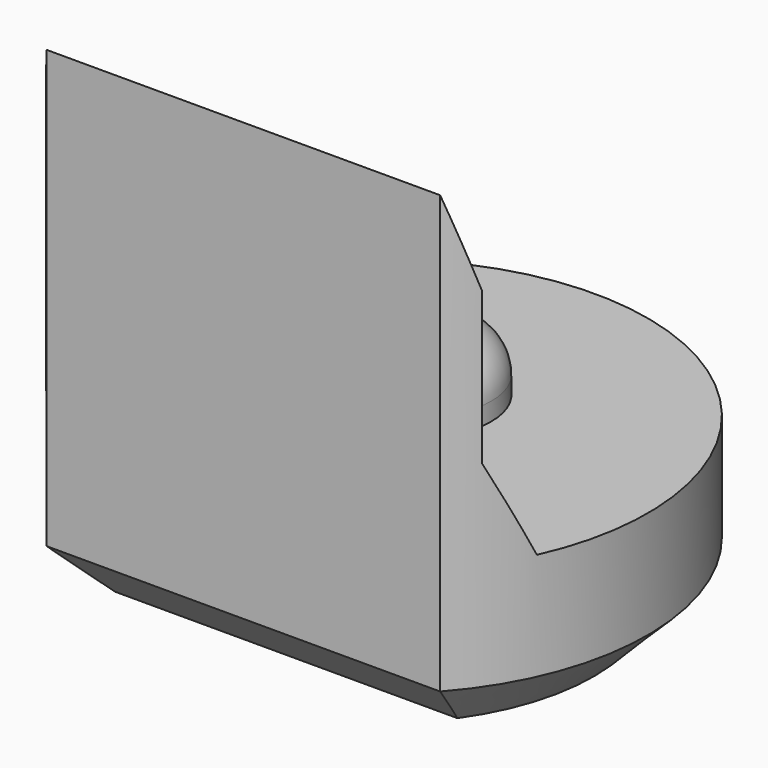
from build123d import *

# Parameters (mm, degrees)
PAD003_DEPTH         = 5.5
POCKET004_DEPTH      = 2.951
POCKET004_DEPTH_BACK = 2.951
SKETCH013_R          = 0.8
PAD006_DEPTH         = 0.7
FILLET_R             = 0.5
CHAMFER004_SIZE      = 0.6


with BuildPart() as part:
    # Sketch004 → Pad003 (new body)
    with BuildSketch(Plane.XY):
        with BuildLine():
            ThreePointArc((2.2, -1.9653244007), (0, 2.95), (-2.2, -1.9653244007))
            Line((-2.2, -1.9653244007), (2.2, -1.9653244007))
        make_face()
    extrude(amount=PAD003_DEPTH)

    # Sketch014 → Pocket004 (cut, two sides)
    with BuildSketch(Plane.YZ) as pocket004_sk:
        Polygon((-1.97, 5.5), (-1.67, 4.5), (-1.67, 2.8), (-1.22, 1.8), (4, 1.8), (4, 5.5), align=None)
    extrude(amount=-POCKET004_DEPTH, mode=Mode.SUBTRACT)
    extrude(pocket004_sk.sketch, amount=POCKET004_DEPTH_BACK, mode=Mode.SUBTRACT)

    # Sketch013 (on Face7 of Pocket004) → Pad006 (join)
    with BuildSketch(Plane.XY.offset(1.8)):
        with Locations((0, 0.5)):
            Circle(SKETCH013_R)
    extrude(amount=PAD006_DEPTH)

    # Fillet
    fillet_edges = [part.edges().sort_by_distance(p)[0] for p in [
        (-0.8, 0.5, 2.5),
    ]]
    fillet(fillet_edges, radius=FILLET_R)

    # Chamfer004
    chamfer004_edges = [part.edges().sort_by_distance(p)[0] for p in [
        (0, 2.95, 0),
        (0, -1.965324, 0),
    ]]
    chamfer(chamfer004_edges, length=CHAMFER004_SIZE)


with BuildPart() as part_1:
    # Body024 placement: moved
    add(part.part.moved(Location((0, 30, 0))))


solid = part_1.part
